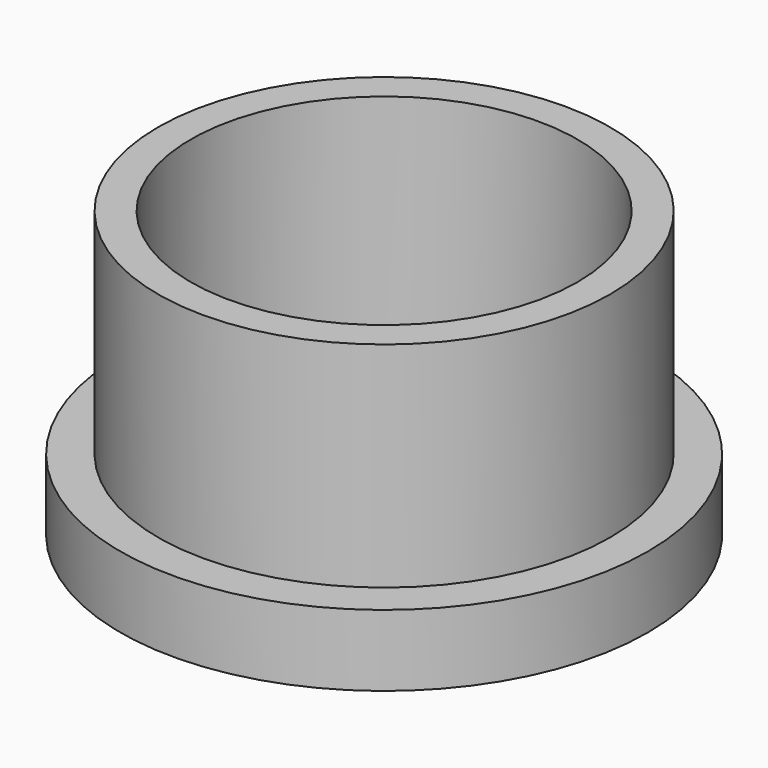
from build123d import *

# Parameters (mm, degrees)
F0_R     = 15.85
F0_R_2   = 13.55
F1_DEPTH = 20
F0_R_3   = 18.5
F2_DEPTH = 5


with BuildPart() as f1:
    # F0 (on Top) → F1 (new body)
    with BuildSketch(Plane.XY):
        Circle(F0_R)
        Circle(F0_R_2, mode=Mode.SUBTRACT)
    extrude(amount=F1_DEPTH)


with BuildPart() as f2:
    # F0 (on Top) → F2 (new body)
    with BuildSketch(Plane.XY):
        Circle(F0_R_3)
        Circle(F0_R, mode=Mode.SUBTRACT)
    extrude(amount=F2_DEPTH)


solid = Compound([f1.part, f2.part])
